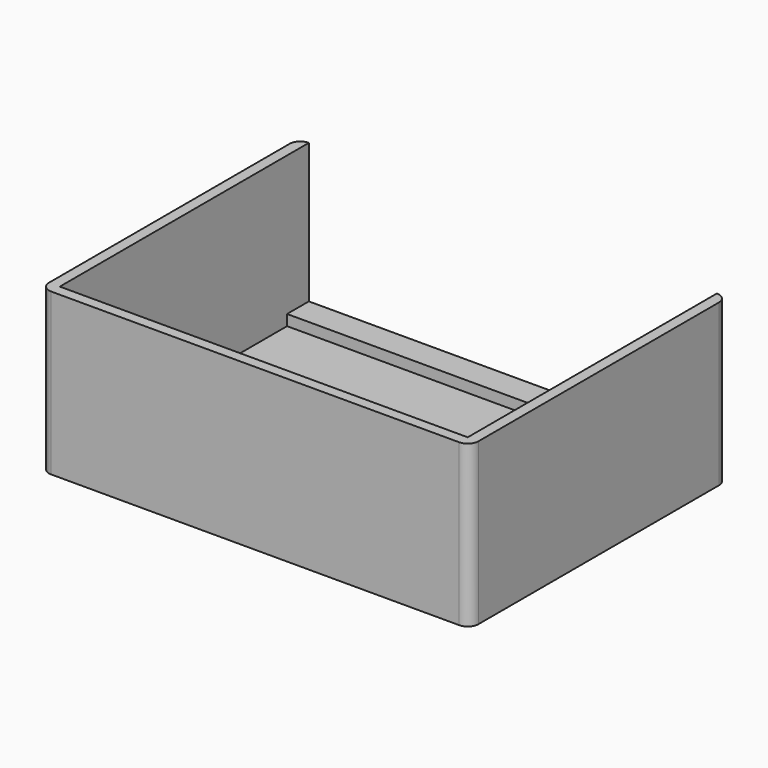
from build123d import *

# Parameters (mm, degrees)
F0_W     = 400
F0_H     = 300
F1_DEPTH = 75
F2_T     = -10
F3_R     = 10
F4_R     = 10
F5_DEPTH = 25.4
F6_W     = 380
F6_H     = 25.4
F7_DEPTH = 10


with BuildPart() as f1:
    # F0 (on Top) → F1 (new body, symmetric)
    with BuildSketch(Plane.XY):
        Rectangle(F0_W, F0_H)
    extrude(amount=F1_DEPTH, both=True)

    # F2
    f2_openings = [f1.faces().sort_by_distance(p)[0] for p in [
        (0, 0, 75),
    ]]
    offset(amount=F2_T, openings=f2_openings)

    # F3
    f3_edges = [f1.edges().sort_by_distance(p)[0] for p in [
        (-200, 150, 0),
        (200, 150, 0),
    ]]
    fillet(f3_edges, radius=F3_R)

    # F4
    f4_edges = [f1.edges().sort_by_distance(p)[0] for p in [
        (200, -150, 0),
        (-200, -150, 0),
    ]]
    fillet(f4_edges, radius=F4_R)

    # F5 (cut): a face of the model
    f5_faces = [f1.faces().sort_by_distance(p)[0] for p in [
        (0, 150, 0),
    ]]
    extrude(f5_faces, amount=-F5_DEPTH, mode=Mode.SUBTRACT)

    # F6 (on face) → F7 (join, symmetric)
    with BuildSketch(Plane.XY.offset(-65)):
        with Locations((0, 137.3)):
            Rectangle(F6_W, F6_H)
    extrude(amount=F7_DEPTH, both=True)


solid = f1.part
